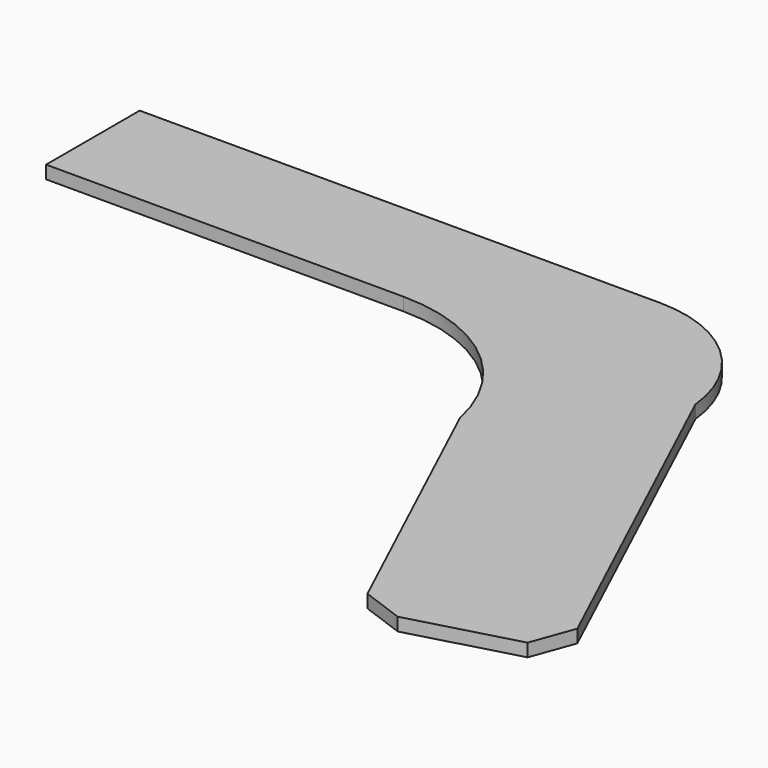
from build123d import *

# Parameters (mm, degrees)
F1_DEPTH = 2


with BuildPart() as f1:
    # F0 (on Top) → F1 (new body)
    with BuildSketch(Plane.XY):
        with BuildLine():
            Line((18, 18), (-62, 18))
            Line((-62, 18), (-62, 0))
            Line((-62, 0), (-7.001212, 0))
            ThreePointArc((-7.001212, 0), (9.131007, -5.745288), (18, -20.394444))
            Line((18, -20.394444), (37.899749, -63.069593))
            Line((37.899749, -63.069593), (44.477597, -65.463734))
            Line((44.477597, -65.463734), (60.878339, -60.989845))
            Line((60.878339, -60.989845), (63.27248, -54.411997))
            Line((63.27248, -54.411997), (37.899749, 0))
            ThreePointArc((37.899749, 0), (31.416408, 12.832397), (18, 18))
        make_face()
    extrude(amount=F1_DEPTH)


solid = f1.part
